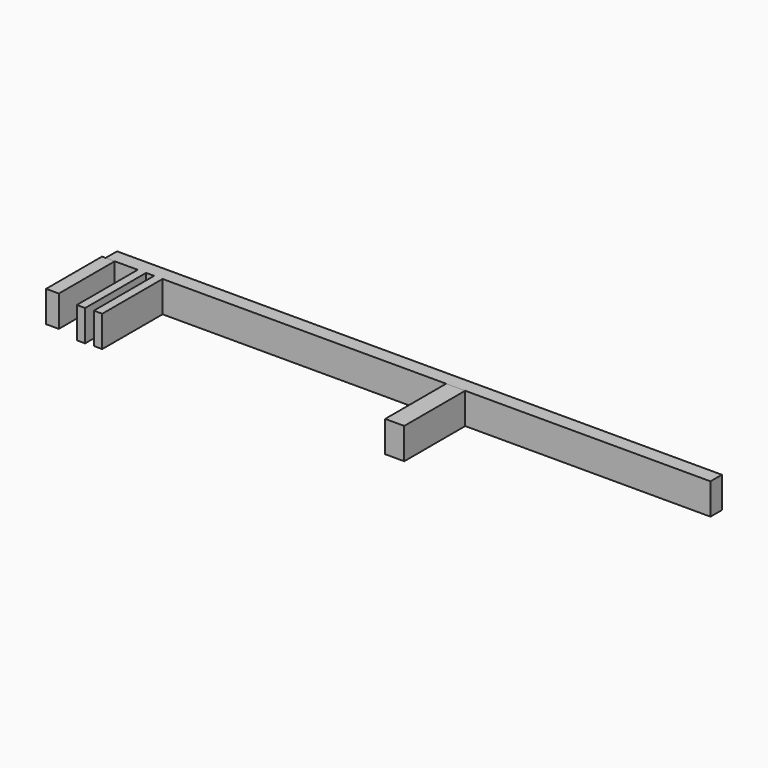
from build123d import *

# Parameters (mm, degrees)
F0_W     = 148.069508
F0_H     = 3.497705
F1_DEPTH = 7.62
F2_W     = 3.121346
F2_H     = 17.1078
F3_DEPTH = 7.62
F4_W     = 4.663609
F4_H     = 18.654425
F5_DEPTH = 7.62
F6_W     = 2.040327
F6_H     = 18.654425
F7_DEPTH = 7.62
F8_W     = 2.064038
F8_H     = 18.461168
F9_DEPTH = 7.62


with BuildPart() as f1:
    # F0 (on Top) → F1 (new body)
    with BuildSketch(Plane.XY):
        with Locations((0.582952, 46.781804)):
            Rectangle(F0_W, F0_H)
    extrude(amount=F1_DEPTH)

    # F6 (on Top) → F7 (join)
    with BuildSketch(Plane.XY):
        with Locations((-64.561807, 35.705739)):
            Rectangle(F6_W, F6_H)
    extrude(amount=F7_DEPTH)

    # F8 (on Top) → F9 (join)
    with BuildSketch(Plane.XY):
        with Locations((-60.540417, 35.802368)):
            Rectangle(F8_W, F8_H)
    extrude(amount=F9_DEPTH)


with BuildPart() as f3:
    # F2 (on Top) → F3 (new body)
    with BuildSketch(Plane.XY):
        with Locations((-72.777592, 36.479052)):
            Rectangle(F2_W, F2_H)
    extrude(amount=F3_DEPTH)


with BuildPart() as f5:
    # F4 (on Top) → F5 (new body)
    with BuildSketch(Plane.XY):
        with Locations((12.241967, 35.705739)):
            Rectangle(F4_W, F4_H)
    extrude(amount=F5_DEPTH)


solid = Compound([f1.part, f3.part, f5.part])
